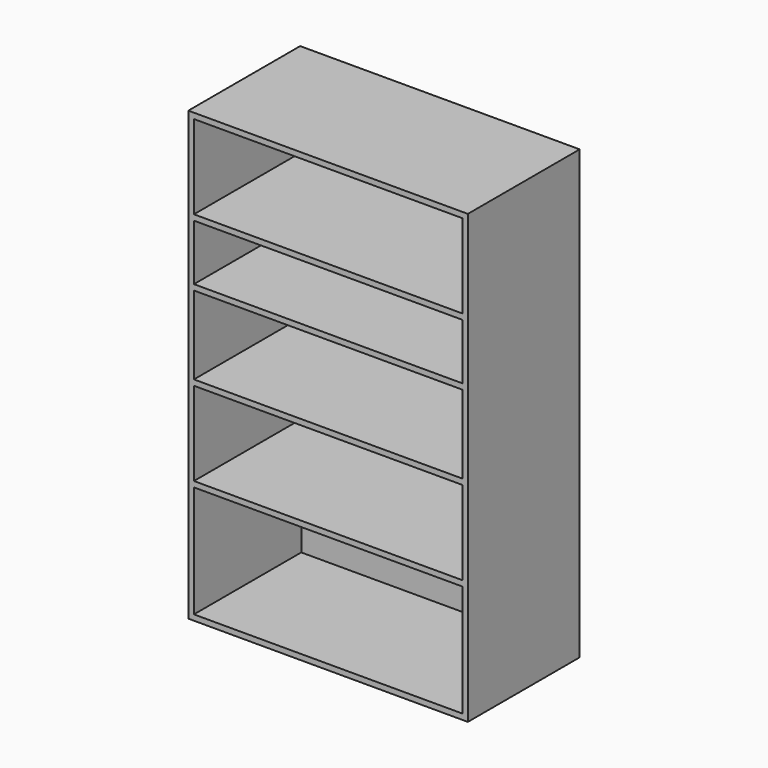
from build123d import *

# Parameters (mm, degrees)
F0_W     = 1000
F0_H     = 1600
F1_DEPTH = 500
F2_W     = 960
F2_H     = 400
F2_H_2   = 300
F2_H_3   = 280
F2_H_4   = 200
F3_DEPTH = 480


with BuildPart() as f1:
    # F0 (on Front) → F1 (new body)
    with BuildSketch(Plane.XZ):
        with Locations((500, 800)):
            Rectangle(F0_W, F0_H)
    extrude(amount=F1_DEPTH)

    # F2 (on face) → F3 (cut)
    with BuildSketch(Plane.XZ.offset(500)):
        with Locations((500, 220)):
            Rectangle(F2_W, F2_H)
        with Locations((500, 590)):
            Rectangle(F2_W, F2_H_2)
        with Locations((500, 900)):
            Rectangle(F2_W, F2_H_3)
        with Locations((500, 1160)):
            Rectangle(F2_W, F2_H_4)
        with Locations((500, 1430)):
            Rectangle(F2_W, F2_H_2)
    extrude(amount=-F3_DEPTH, mode=Mode.SUBTRACT)


solid = f1.part
